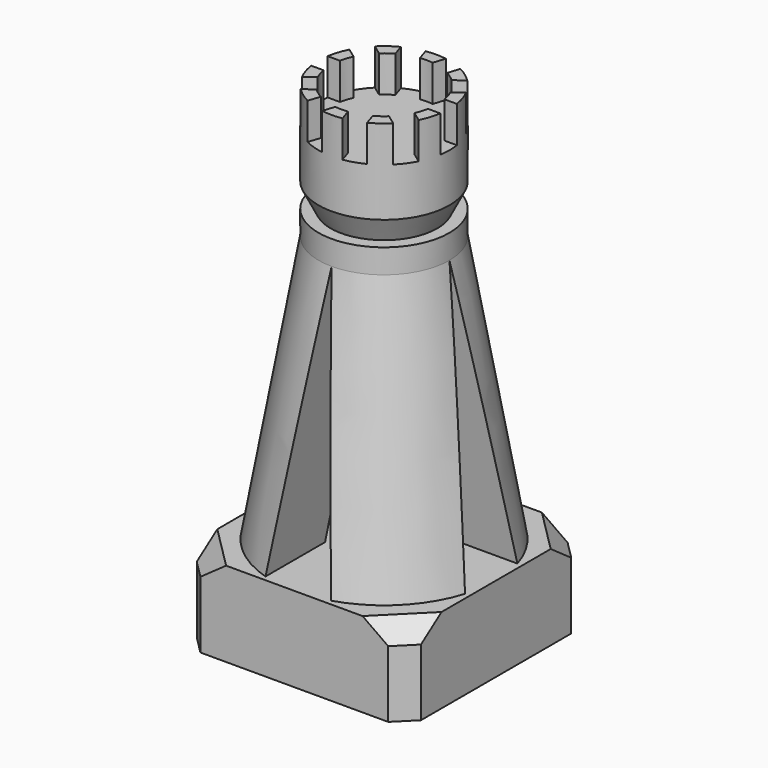
from build123d import *

# Parameters (mm, degrees)
SKETCH_W              = 18.5
SKETCH_H              = 18.5
SKETCH_R              = 8.15
PAD_DEPTH             = 4
SKETCH001_W           = 18.5
SKETCH001_H           = 18.5
PAD001_DEPTH          = 3
SKETCH002_R           = 9.25
SKETCH003_R           = 5.4
SKETCH005_R           = 5.4
PAD002_DEPTH          = 2
CHAMFER_SIZE          = 1.5
CHAMFER001_SIZE       = 1.5
POCKET_DEPTH          = 99.630527
POLARPATTERN_COUNT    = 4
SKETCH007_R           = 4.4
SKETCH008_R           = 5.4
SKETCH009_R           = 5.4
PAD003_DEPTH          = 7
SKETCH010_R           = 4.4
POCKET001_DEPTH       = 3
SKETCH011_W           = 1.7
SKETCH011_H           = 3
POCKET002_DEPTH       = 114.093887
POLARPATTERN001_COUNT = 5


with BuildPart() as part:
    # Sketch → Pad (new body)
    with BuildSketch(Plane.XY):
        Rectangle(SKETCH_W, SKETCH_H)
        Circle(SKETCH_R, mode=Mode.SUBTRACT)
    extrude(amount=PAD_DEPTH)

    # Sketch001 (on Face7 of Pad) → Pad001 (join)
    with BuildSketch(Plane.XY.offset(4)):
        Rectangle(SKETCH001_W, SKETCH001_H)
    extrude(amount=PAD001_DEPTH)

    # Sketch002 (on Face10 of Pad001) → AdditiveLoft section 0
    with BuildSketch(Plane.XY.offset(7)):
        Circle(SKETCH002_R)
    # Sketch003 (on Face10 of Pad001) → AdditiveLoft section 1
    with BuildSketch(Plane.XY.offset(29)):
        Circle(SKETCH003_R)
    loft()

    # Sketch005 (on Face17 of AdditiveLoft) → Pad002 (join)
    with BuildSketch(Plane.XY.offset(29)):
        Circle(SKETCH005_R)
    extrude(amount=PAD002_DEPTH)

    # Chamfer
    chamfer_edges = [part.edges().sort_by_distance(p)[0] for p in [
        (-9.25, -9.25, 5.5),
        (-9.25, -9.25, 2),
        (9.25, -9.25, 5.5),
        (9.25, -9.25, 2),
        (9.25, 9.25, 2),
        (9.25, 9.25, 5.5),
        (-9.25, 9.25, 5.5),
        (-9.25, 9.25, 2),
    ]]
    chamfer(chamfer_edges, length=CHAMFER_SIZE)

    # Chamfer001
    chamfer001_edges = [part.edges().sort_by_distance(p)[0] for p in [
        (8.5, -8.5, 7),
        (-8.5, -8.5, 7),
        (-8.5, 8.5, 7),
        (8.5, 8.5, 7),
    ]]
    chamfer(chamfer001_edges, length=CHAMFER001_SIZE)

    # Sketch006 (on Face19 of Chamfer001) → Pocket (cut, through all)
    with BuildSketch(Plane.YZ.offset(9.25)):
        Polygon((0, 29), (-2.7, 7), (2.7, 7), align=None)
    pocket = extrude(amount=-POCKET_DEPTH, mode=Mode.SUBTRACT)

    # PolarPattern: Pocket ×4 about axis
    polarpattern_axis = Axis((0, 0, 0), (0, 0, 1))
    for i in range(1, POLARPATTERN_COUNT):
        add(pocket.rotate(polarpattern_axis, i * 360 / POLARPATTERN_COUNT), mode=Mode.SUBTRACT)

    # Sketch007 (on Face47 of PolarPattern) → AdditiveLoft001 section 0
    with BuildSketch(Plane.XY.offset(31)):
        Circle(SKETCH007_R)
    # Sketch008 → AdditiveLoft001 section 1
    with BuildSketch(Plane.XY.offset(33)):
        Circle(SKETCH008_R)
    loft()

    # Sketch009 (on Face56 of AdditiveLoft001) → Pad003 (join)
    with BuildSketch(Plane.XY.offset(33)):
        Circle(SKETCH009_R)
    extrude(amount=PAD003_DEPTH)

    # Sketch010 (on Face57 of Pad003) → Pocket001 (cut)
    with BuildSketch(Plane.XY.offset(40)):
        Circle(SKETCH010_R)
    extrude(amount=-POCKET001_DEPTH, mode=Mode.SUBTRACT)

    # Sketch011 (on Face26 of Pocket001) → Pocket002 (cut, through all)
    with BuildSketch(Plane.YZ.offset(9.25)):
        with Locations((0, 38.5)):
            Rectangle(SKETCH011_W, SKETCH011_H)
    pocket002 = extrude(amount=-POCKET002_DEPTH, mode=Mode.SUBTRACT)

    # PolarPattern001: Pocket002 ×5 about axis
    polarpattern001_axis = Axis((0, 0, 0), (0, 0, 1))
    for i in range(1, POLARPATTERN001_COUNT):
        add(pocket002.rotate(polarpattern001_axis, i * 360 / POLARPATTERN001_COUNT), mode=Mode.SUBTRACT)


solid = part.part
